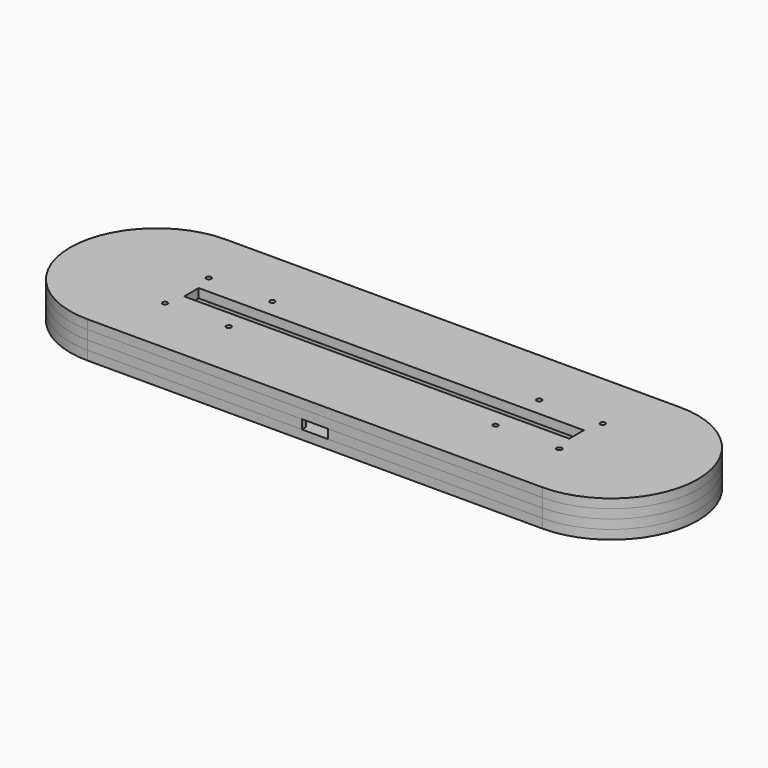
from build123d import *

# Parameters (mm, degrees)
BOX_BOTTOM_HALF_1_W     = 209
BOX_BOTTOM_HALF_1_H     = 59
BOX_BOTTOM_HALF_1_DEPTH = 4
BOX_BOTTOM_HALF_0_W     = 209
BOX_BOTTOM_HALF_0_H     = 59
BOX_BOTTOM_HALF_0_DEPTH = 7
PAD_DEPTH               = 6
POCKET_DEPTH            = 3
SKETCH002_W             = 18.4
SKETCH002_H             = 20.85
POCKET001_DEPTH         = 3
SKETCH003_W             = 8.55
SKETCH003_H             = 1.65
POCKET002_DEPTH         = 3
PAD001_DEPTH            = 3
SKETCH005_W             = 127
SKETCH005_H             = 6
PAD002_DEPTH            = 3
SKETCH006_R             = 0.825
POCKET003_DEPTH         = 442.080062
POLARPATTERN_COUNT      = 2
POLARPATTERN001_COUNT   = 2
POLARPATTERN002_COUNT   = 2
BOX_BOTTOM_HALF_2_W     = 209
BOX_BOTTOM_HALF_2_H     = 59
BOX_BOTTOM_HALF_2_DEPTH = 4


with BuildPart() as box_bottom_half_1_body:
    # box_bottom_half_1 → box_bottom_half_1 (new body)
    with BuildSketch(Plane(origin=(-104.5, -29.5, -1), x_dir=(1, 0, 0), z_dir=(0, 0, 1))):
        with Locations((104.5, 29.5)):
            Rectangle(BOX_BOTTOM_HALF_1_W, BOX_BOTTOM_HALF_1_H)
    extrude(amount=BOX_BOTTOM_HALF_1_DEPTH)


with BuildPart() as box_bottom_half_0_body:
    # box_bottom_half_0 → box_bottom_half_0 (new body)
    with BuildSketch(Plane(origin=(-104.5, -29.5, -1), x_dir=(1, 0, 0), z_dir=(0, 0, 1))):
        with Locations((104.5, 29.5)):
            Rectangle(BOX_BOTTOM_HALF_0_W, BOX_BOTTOM_HALF_0_H)
    extrude(amount=BOX_BOTTOM_HALF_0_DEPTH)


with BuildPart() as body:
    # Sketch → Pad (new body)
    with BuildSketch(Plane.XY):
        with BuildLine():
            ThreePointArc((-75, 28.5), (-103.5, 0), (-75, -28.5))
            Line((-75, -28.5), (75, -28.5))
            ThreePointArc((75, -28.5), (103.5, 0), (75, 28.5))
            Line((-75, 28.5), (75, 28.5))
        make_face()
    extrude(amount=PAD_DEPTH)

    # Sketch001 (on Face6 of Pad) → Pocket (cut)
    with BuildSketch(Plane.XY.offset(6)):
        with BuildLine():
            ThreePointArc((-62.5, 6), (-68.5, 0), (-62.5, -6))
            Line((-62.5, -6), (62.5, -6))
            ThreePointArc((62.5, -6), (68.5, 0), (62.5, 6))
            Line((-62.5, 6), (62.5, 6))
        make_face()
    extrude(amount=-POCKET_DEPTH, mode=Mode.SUBTRACT)

    # Sketch002 (on Face5 of Pocket) → Pocket001 (cut)
    with BuildSketch(Plane.XY.offset(6)):
        with Locations((0, -16.425)):
            Rectangle(SKETCH002_W, SKETCH002_H)
    extrude(amount=-POCKET001_DEPTH, mode=Mode.SUBTRACT)

    # Sketch003 (on Face5 of Pocket001) → Pocket002 (cut)
    with BuildSketch(Plane.XY.offset(6)):
        with Locations((0, -27.675)):
            Rectangle(SKETCH003_W, SKETCH003_H)
    extrude(amount=-POCKET002_DEPTH, mode=Mode.SUBTRACT)

    # Sketch004 (on Face5 of Pocket002) → Pad001 (join)
    with BuildSketch(Plane.XY.offset(6)):
        with BuildLine():
            ThreePointArc((-75, 28.5), (-103.5, 0), (-75, -28.5))
            Line((-75, -28.5), (75, -28.5))
            ThreePointArc((75, -28.5), (103.5, 0), (75, 28.5))
            Line((-75, 28.5), (75, 28.5))
        make_face()
        with BuildLine():
            ThreePointArc((-62.5, 6), (-68.5, 0), (-62.5, -6))
            Line((-62.5, -6), (62.5, -6))
            ThreePointArc((62.5, -6), (68.5, 0), (62.5, 6))
            Line((-62.5, 6), (62.5, 6))
        make_face(mode=Mode.SUBTRACT)
    extrude(amount=PAD001_DEPTH)

    # Sketch005 (on Face12 of Pad001) → Pad002 (join)
    with BuildSketch(Plane.XY.offset(9)):
        with BuildLine():
            ThreePointArc((-75, 28.5), (-103.5, 0), (-75, -28.5))
            Line((-75, -28.5), (75, -28.5))
            ThreePointArc((75, -28.5), (103.5, 0), (75, 28.5))
            Line((-75, 28.5), (75, 28.5))
        make_face()
        Rectangle(SKETCH005_W, SKETCH005_H, mode=Mode.SUBTRACT)
    extrude(amount=PAD002_DEPTH)

    # Sketch006 (on Face20 of Pad002) → Pocket003 (cut, through all)
    with BuildSketch(Plane.XY.offset(12)):
        with Locations((-65, -9)):
            Circle(SKETCH006_R)
        with Locations((-44, -9)):
            Circle(SKETCH006_R)
    pocket003 = extrude(amount=-POCKET003_DEPTH, mode=Mode.SUBTRACT)

    # PolarPattern: Pocket003 ×2 about axis
    polarpattern_axis = Axis((0, 0, 12), (0, 0, 1))
    for i in range(1, POLARPATTERN_COUNT):
        add(pocket003.rotate(polarpattern_axis, i * 360 / POLARPATTERN_COUNT), mode=Mode.SUBTRACT)

    # PolarPattern001: Pocket003 ×2 about axis
    polarpattern001_axis = Axis((0, 0, 0), (0, 1, 0))
    for i in range(1, POLARPATTERN001_COUNT):
        add(pocket003.rotate(polarpattern001_axis, i * 360 / POLARPATTERN001_COUNT), mode=Mode.SUBTRACT)

    # PolarPattern002: Pocket003 ×2 about axis
    polarpattern002_axis = Axis((0, 0, 0), (-1, 0, 0))
    for i in range(1, POLARPATTERN002_COUNT):
        add(pocket003.rotate(polarpattern002_axis, i * 360 / POLARPATTERN002_COUNT), mode=Mode.SUBTRACT)


with BuildPart() as bottom_half_0_body:
    # bottom_half_0 base: copy of Body
    add(body.part)

    # bottom_half_0: intersect box_bottom_half_0 body
    add(box_bottom_half_0_body.part, mode=Mode.INTERSECT)


with BuildPart() as bottom_half_1_body:
    # bottom_half_1 base: copy of bottom_half_0 body
    add(bottom_half_0_body.part)

    # bottom_half_1: intersect box_bottom_half_1 body
    add(box_bottom_half_1_body.part, mode=Mode.INTERSECT)


with BuildPart() as top_half_1_body:
    # top_half_1 base: copy of bottom_half_0 body
    add(bottom_half_0_body.part)

    # top_half_1: cut box_bottom_half_1 body
    add(box_bottom_half_1_body.part, mode=Mode.SUBTRACT)


with BuildPart() as box_bottom_half_2_body:
    # box_bottom_half_2 → box_bottom_half_2 (new body)
    with BuildSketch(Plane(origin=(-104.5, -29.5, 5), x_dir=(1, 0, 0), z_dir=(0, 0, 1))):
        with Locations((104.5, 29.5)):
            Rectangle(BOX_BOTTOM_HALF_2_W, BOX_BOTTOM_HALF_2_H)
    extrude(amount=BOX_BOTTOM_HALF_2_DEPTH)


with BuildPart() as top_half_0_body:
    # top_half_0 base: copy of Body
    add(body.part)

    # top_half_0: cut box_bottom_half_0 body
    add(box_bottom_half_0_body.part, mode=Mode.SUBTRACT)


with BuildPart() as bottom_half_2_body:
    # bottom_half_2 base: copy of top_half_0 body
    add(top_half_0_body.part)

    # bottom_half_2: intersect box_bottom_half_2 body
    add(box_bottom_half_2_body.part, mode=Mode.INTERSECT)


with BuildPart() as top_half_2_body:
    # top_half_2 base: copy of top_half_0 body
    add(top_half_0_body.part)

    # top_half_2: cut box_bottom_half_2 body
    add(box_bottom_half_2_body.part, mode=Mode.SUBTRACT)


solid = Compound([bottom_half_1_body.part, top_half_1_body.part, bottom_half_2_body.part, top_half_2_body.part])
